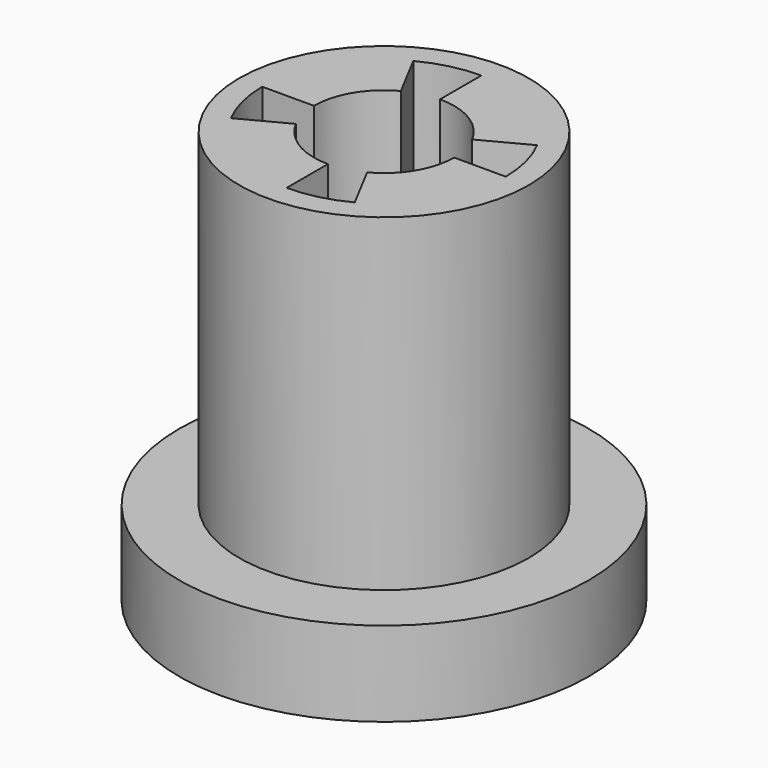
from build123d import *

# Parameters (mm, degrees)
F0_R     = 13.3
F0_R_2   = 9.4
F1_DEPTH = 5.5
F2_R     = 9.4
F3_DEPTH = 21.3
F6_DEPTH = 25


with BuildPart() as f1:
    # F0 (on Top) → F1 (new body)
    with BuildSketch(Plane.XY):
        Circle(F0_R)
        Circle(F0_R_2, mode=Mode.SUBTRACT)
    extrude(amount=-F1_DEPTH)


with BuildPart() as f3:
    # F2 (on Top) → F3 (new body)
    with BuildSketch(Plane.XY):
        Circle(F2_R)
    extrude(amount=F3_DEPTH)

    # F5 (on face) → F6 (cut)
    with BuildSketch(Plane.XY.offset(21.3)):
        with BuildLine():
            Line((4.55, 0), (7.9, 0))
            ThreePointArc((7.9, 0), (7.668116, 1.9), (6.986076, 3.688461))
            Line((6.986076, 3.688461), (4.023626, 2.124367))
            ThreePointArc((4.023626, 2.124367), (2.34911, 3.896689), (0, 4.55))
            Line((0, 4.55), (0, 7.9))
            ThreePointArc((0, 7.9), (-1.9, 7.668116), (-3.688461, 6.986076))
            Line((-3.688461, 6.986076), (-2.124367, 4.023626))
            ThreePointArc((-2.124367, 4.023626), (-3.896689, 2.34911), (-4.55, 0))
            Line((-4.55, 0), (-7.9, 0))
            ThreePointArc((-7.9, 0), (-7.668116, -1.9), (-6.986076, -3.688461))
            Line((-6.986076, -3.688461), (-4.023626, -2.124367))
            ThreePointArc((-4.023626, -2.124367), (-2.34911, -3.896689), (0, -4.55))
            Line((0, -4.55), (0, -7.9))
            ThreePointArc((0, -7.9), (1.9, -7.668116), (3.688461, -6.986076))
            Line((3.688461, -6.986076), (2.124367, -4.023626))
            ThreePointArc((2.124367, -4.023626), (3.896689, -2.34911), (4.55, 0))
        make_face()
    extrude(amount=-F6_DEPTH, mode=Mode.SUBTRACT)


solid = Compound([f1.part, f3.part])
